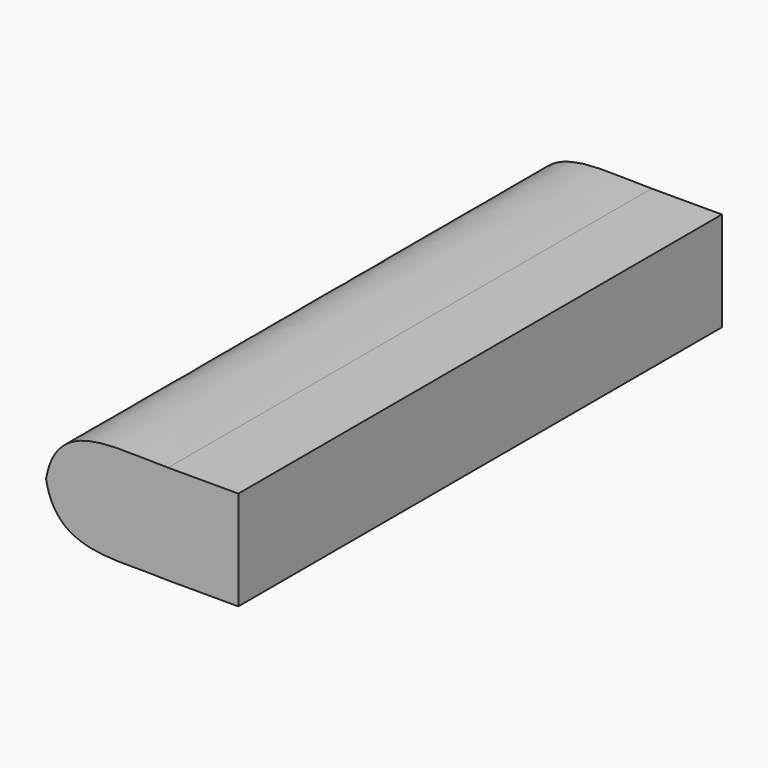
from build123d import *

# Parameters (mm, degrees)
F0_W     = 4.88
F0_H     = 3.45
F1_DEPTH = 42


with BuildPart() as f1:
    # F0 (on Front) → F1 (new body)
    with BuildSketch(Plane.XZ):
        with BuildLine():
            Line((0.104038, 0.30882), (0.104038, 3.75882))
            add(Edge.make_bspline(
                [(0.104038, 3.75882), (-3.565067, 3.705052), (-7.635989, 4.630023), (-8.375962, 0.30882)],
                knots=[0, 0, 0, 0, 9.154939, 9.154939, 9.154939, 9.154939], degree=3))
            add(Edge.make_bspline(
                [(0.104038, -3.14118), (-3.565067, -2.956182), (-7.635989, -3.881157), (-8.375962, 0.30882)],
                knots=[0, 0, 0, 0, 9.154939, 9.154939, 9.154939, 9.154939], degree=3))
            Line((0.104038, -3.14118), (0.104038, 0.30882))
        make_face()
        with Locations((2.544038, -1.41618)):
            Rectangle(F0_W, F0_H)
        with Locations((2.544038, 2.03382)):
            Rectangle(F0_W, F0_H)
    extrude(amount=F1_DEPTH)


solid = f1.part
